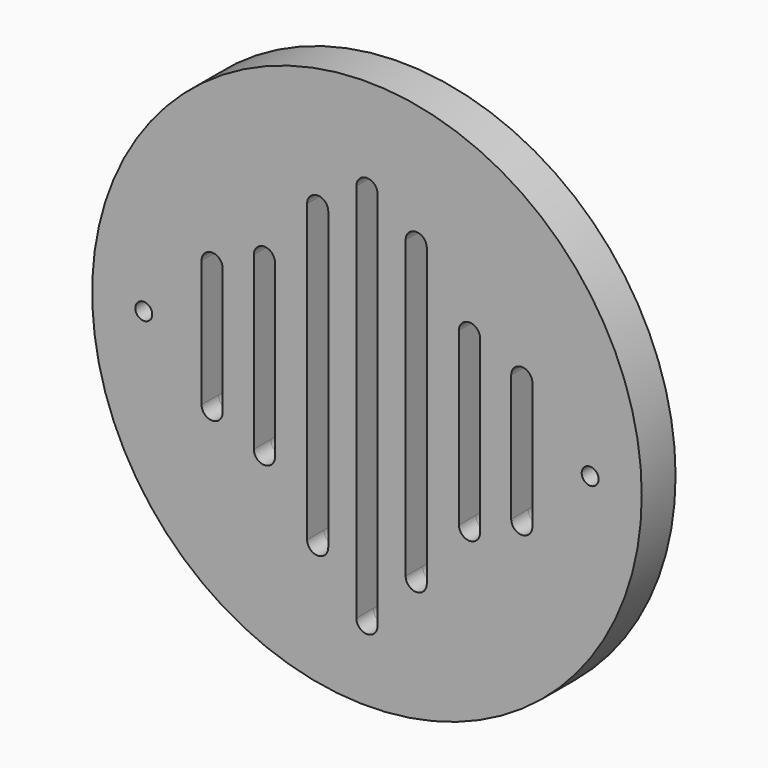
from build123d import *

# Parameters (mm, degrees)
F0_R     = 82.55
F1_DEPTH = 6.35
F2_R     = 82.55
F2_R_2   = 2.54
F3_DEPTH = 6.35


with BuildPart() as f1:
    # F0 (on Front) → F1 (new body)
    with BuildSketch(Plane.XZ):
        Circle(F0_R)
        with BuildLine():
            Line((3.175, 53.897562), (3.175, -60.402438))
            ThreePointArc((3.175, -60.402438), (2.245064, -62.647502), (0, -63.577438))
            ThreePointArc((0, -63.577438), (-2.245064, -62.647502), (-3.175, -60.402438))
            Line((-3.175, -60.402438), (-3.175, 53.897562))
            ThreePointArc((-3.175, 53.897562), (-2.245064, 56.142626), (0, 57.072562))
            ThreePointArc((0, 57.072562), (2.245064, 56.142626), (3.175, 53.897562))
        make_face(mode=Mode.SUBTRACT)
        with BuildLine():
            Line((-49.684873, -19.05), (-49.684873, 19.05))
            ThreePointArc((-49.684873, 19.05), (-48.754937, 21.295064), (-46.509873, 22.225))
            ThreePointArc((-46.509873, 22.225), (-44.264809, 21.295064), (-43.334873, 19.05))
            Line((-43.334873, 19.05), (-43.334873, -19.05))
            ThreePointArc((-43.334873, -19.05), (-44.264809, -21.295064), (-46.509873, -22.225))
            ThreePointArc((-46.509873, -22.225), (-48.754937, -21.295064), (-49.684873, -19.05))
        make_face(mode=Mode.SUBTRACT)
        with BuildLine():
            Line((-33.980241, -25.7175), (-33.980241, 25.7175))
            ThreePointArc((-33.980241, 25.7175), (-33.050305, 27.962564), (-30.805241, 28.8925))
            ThreePointArc((-30.805241, 28.8925), (-28.560177, 27.962564), (-27.630241, 25.7175))
            Line((-27.630241, 25.7175), (-27.630241, -25.7175))
            ThreePointArc((-27.630241, -25.7175), (-28.560177, -27.962564), (-30.805241, -28.8925))
            ThreePointArc((-30.805241, -28.8925), (-33.050305, -27.962564), (-33.980241, -25.7175))
        make_face(mode=Mode.SUBTRACT)
        with BuildLine():
            Line((-17.973594, -44.45), (-17.973594, 44.45))
            ThreePointArc((-17.973594, 44.45), (-17.043658, 46.695064), (-14.798594, 47.625))
            ThreePointArc((-14.798594, 47.625), (-12.55353, 46.695064), (-11.623594, 44.45))
            Line((-11.623594, 44.45), (-11.623594, -44.45))
            ThreePointArc((-11.623594, -44.45), (-12.55353, -46.695064), (-14.798594, -47.625))
            ThreePointArc((-14.798594, -47.625), (-17.043658, -46.695064), (-17.973594, -44.45))
        make_face(mode=Mode.SUBTRACT)
        with BuildLine():
            ThreePointArc((11.623594, 44.45), (12.55353, 46.695064), (14.798594, 47.625))
            ThreePointArc((14.798594, 47.625), (17.043658, 46.695064), (17.973594, 44.45))
            Line((17.973594, 44.45), (17.973594, -44.45))
            ThreePointArc((17.973594, -44.45), (17.043658, -46.695064), (14.798594, -47.625))
            ThreePointArc((14.798594, -47.625), (12.55353, -46.695064), (11.623594, -44.45))
            Line((11.623594, -44.45), (11.623594, 44.45))
        make_face(mode=Mode.SUBTRACT)
        with BuildLine():
            ThreePointArc((33.980241, -25.7175), (33.050305, -27.962564), (30.805241, -28.8925))
            ThreePointArc((30.805241, -28.8925), (28.560177, -27.962564), (27.630241, -25.7175))
            Line((27.630241, -25.7175), (27.630241, 25.7175))
            ThreePointArc((27.630241, 25.7175), (28.560177, 27.962564), (30.805241, 28.8925))
            ThreePointArc((30.805241, 28.8925), (33.050305, 27.962564), (33.980241, 25.7175))
            Line((33.980241, 25.7175), (33.980241, -25.7175))
        make_face(mode=Mode.SUBTRACT)
        with BuildLine():
            ThreePointArc((43.334873, 19.05), (44.264809, 21.295064), (46.509873, 22.225))
            ThreePointArc((46.509873, 22.225), (48.754937, 21.295064), (49.684873, 19.05))
            Line((49.684873, 19.05), (49.684873, -19.05))
            ThreePointArc((49.684873, -19.05), (48.754937, -21.295064), (46.509873, -22.225))
            ThreePointArc((46.509873, -22.225), (44.264809, -21.295064), (43.334873, -19.05))
            Line((43.334873, -19.05), (43.334873, 19.05))
        make_face(mode=Mode.SUBTRACT)
    extrude(amount=F1_DEPTH)

    # F2 (on face) → F3 (join)
    with BuildSketch(Plane.XZ.offset(6.35)):
        Circle(F2_R)
        with BuildLine():
            Line((-3.175, -60.402438), (-3.175, 53.897562))
            ThreePointArc((-3.175, 53.897562), (0, 57.072562), (3.175, 53.897562))
            Line((3.175, 53.897562), (3.175, -60.402438))
            ThreePointArc((3.175, -60.402438), (0, -63.577438), (-3.175, -60.402438))
        make_face(mode=Mode.SUBTRACT)
        with Locations((-67.046702, 0)):
            Circle(F2_R_2, mode=Mode.SUBTRACT)
        with BuildLine():
            Line((-43.334873, 19.05), (-43.334873, -19.05))
            ThreePointArc((-43.334873, -19.05), (-46.509873, -22.225), (-49.684873, -19.05))
            Line((-49.684873, -19.05), (-49.684873, 19.05))
            ThreePointArc((-49.684873, 19.05), (-46.509873, 22.225), (-43.334873, 19.05))
        make_face(mode=Mode.SUBTRACT)
        with BuildLine():
            Line((-27.630241, 25.7175), (-27.630241, -25.7175))
            ThreePointArc((-27.630241, -25.7175), (-30.805241, -28.8925), (-33.980241, -25.7175))
            Line((-33.980241, -25.7175), (-33.980241, 25.7175))
            ThreePointArc((-33.980241, 25.7175), (-30.805241, 28.8925), (-27.630241, 25.7175))
        make_face(mode=Mode.SUBTRACT)
        with BuildLine():
            Line((-11.623594, 44.45), (-11.623594, -44.45))
            ThreePointArc((-11.623594, -44.45), (-14.798594, -47.625), (-17.973594, -44.45))
            Line((-17.973594, -44.45), (-17.973594, 44.45))
            ThreePointArc((-17.973594, 44.45), (-14.798594, 47.625), (-11.623594, 44.45))
        make_face(mode=Mode.SUBTRACT)
        with BuildLine():
            ThreePointArc((17.973594, -44.45), (14.798594, -47.625), (11.623594, -44.45))
            Line((11.623594, -44.45), (11.623594, 44.45))
            ThreePointArc((11.623594, 44.45), (14.798594, 47.625), (17.973594, 44.45))
            Line((17.973594, 44.45), (17.973594, -44.45))
        make_face(mode=Mode.SUBTRACT)
        with BuildLine():
            ThreePointArc((27.630241, 25.7175), (30.805241, 28.8925), (33.980241, 25.7175))
            Line((33.980241, 25.7175), (33.980241, -25.7175))
            ThreePointArc((33.980241, -25.7175), (30.805241, -28.8925), (27.630241, -25.7175))
            Line((27.630241, -25.7175), (27.630241, 25.7175))
        make_face(mode=Mode.SUBTRACT)
        with BuildLine():
            ThreePointArc((49.684873, -19.05), (46.509873, -22.225), (43.334873, -19.05))
            Line((43.334873, -19.05), (43.334873, 19.05))
            ThreePointArc((43.334873, 19.05), (46.509873, 22.225), (49.684873, 19.05))
            Line((49.684873, 19.05), (49.684873, -19.05))
        make_face(mode=Mode.SUBTRACT)
        with Locations((67.046702, 0)):
            Circle(F2_R_2, mode=Mode.SUBTRACT)
    extrude(amount=F3_DEPTH)


solid = f1.part
